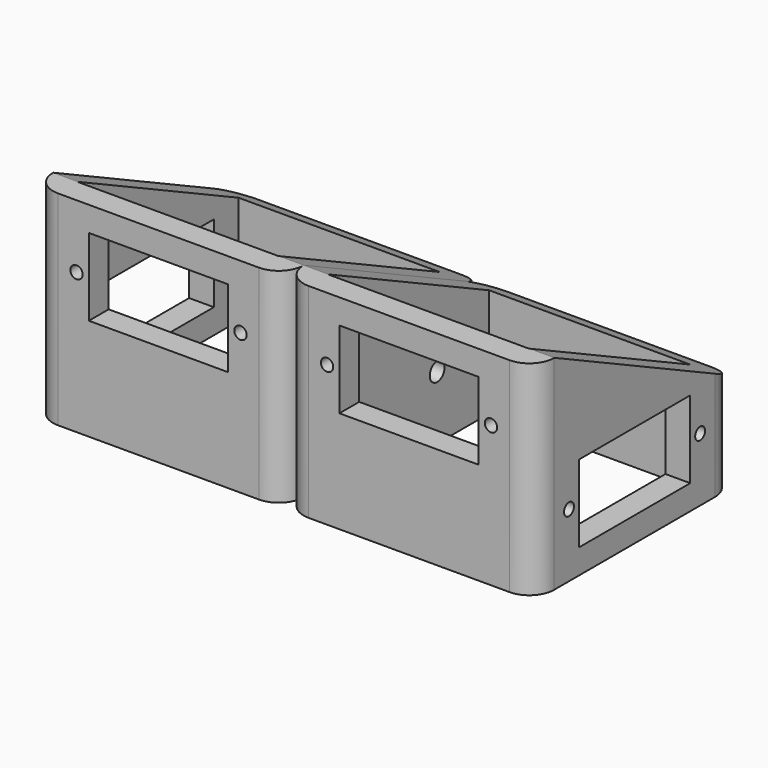
from build123d import *

# Parameters (mm, degrees)
F2_W      = 40.5
F2_H      = 40.5
F2_W_2    = 32.5
F2_H_2    = 32.5
F3_DEPTH  = 33
F4_W      = 22.5
F4_H      = 6.25
F5_DEPTH  = 25
F6_W      = 22.5
F6_H      = 6.25
F7_DEPTH  = 25
F9_DEPTH  = 25
F11_DEPTH = 60
F12_R     = 4
F14_ANGLE = 180


with BuildPart() as f3:
    # F2 (on Top) → F3 (new body)
    with BuildSketch(Plane.XY):
        Rectangle(F2_W, F2_H)
        Rectangle(F2_W_2, F2_H_2, mode=Mode.SUBTRACT)
    extrude(amount=F3_DEPTH)

    # F4 (on face) → F5 (cut)
    with BuildSketch(Plane.XZ.offset(20.25)):
        with Locations((0, 25.875)):
            Rectangle(F4_W, F4_H)
        with Locations((0, 19.625)):
            Rectangle(F4_W, F4_H)
        with BuildLine():
            Line((-14.25, 22.75), (-12.25, 22.75))
            ThreePointArc((-12.25, 22.75), (-13.25, 23.75), (-14.25, 22.75))
        make_face()
        with BuildLine():
            ThreePointArc((-14.25, 22.75), (-13.25, 21.75), (-12.25, 22.75))
            Line((-12.25, 22.75), (-14.25, 22.75))
        make_face()
        with BuildLine():
            ThreePointArc((14.25, 22.75), (13.25, 23.75), (12.25, 22.75))
            Line((12.25, 22.75), (14.25, 22.75))
        make_face()
        with BuildLine():
            Line((14.25, 22.75), (12.25, 22.75))
            ThreePointArc((12.25, 22.75), (13.25, 21.75), (14.25, 22.75))
        make_face()
    extrude(amount=-F5_DEPTH, mode=Mode.SUBTRACT)

    # F6 (on face) → F7 (cut)
    with BuildSketch(Plane(origin=(-20.25, 0, 0), x_dir=(0, -1, 0), z_dir=(-1, 0, 0))):
        with Locations((0, 13.375)):
            Rectangle(F6_W, F6_H)
        with Locations((0, 7.125)):
            Rectangle(F6_W, F6_H)
        with BuildLine():
            Line((14.25, 10.25), (12.25, 10.25))
            ThreePointArc((12.25, 10.25), (13.25, 9.25), (14.25, 10.25))
        make_face()
        with BuildLine():
            ThreePointArc((14.25, 10.25), (13.25, 11.25), (12.25, 10.25))
            Line((12.25, 10.25), (14.25, 10.25))
        make_face()
        with BuildLine():
            Line((-14.25, 10.25), (-12.25, 10.25))
            ThreePointArc((-12.25, 10.25), (-13.25, 11.25), (-14.25, 10.25))
        make_face()
        with BuildLine():
            ThreePointArc((-14.25, 10.25), (-13.25, 9.25), (-12.25, 10.25))
            Line((-12.25, 10.25), (-14.25, 10.25))
        make_face()
    extrude(amount=-F7_DEPTH, mode=Mode.SUBTRACT)

    # F8 (on face) → F9 (cut)
    with BuildSketch(Plane.YZ.offset(20.25)):
        with BuildLine():
            ThreePointArc((7.25, 10.25), (5.75, 11.75), (4.25, 10.25))
            Line((4.25, 10.25), (7.25, 10.25))
        make_face()
        with BuildLine():
            Line((7.25, 10.25), (4.25, 10.25))
            ThreePointArc((4.25, 10.25), (5.75, 8.75), (7.25, 10.25))
        make_face()
    extrude(amount=-F9_DEPTH, mode=Mode.SUBTRACT)

    # F10 (on face) → F11 (cut)
    with BuildSketch(Plane(origin=(-20.25, 0, 0), x_dir=(0, -1, 0), z_dir=(-1, 0, 0))):
        Polygon((16.2138678133, 33), (-20.25, 33), (-20.25, 15.6366154552), align=None)
    extrude(amount=-F11_DEPTH, mode=Mode.SUBTRACT)

    # F12
    f12_edges = [f3.edges().sort_by_distance(p)[0] for p in [
        (-20.25, -20.25, 16.5),
        (20.25, -20.25, 16.5),
        (20.25, 20.25, 7.818308),
        (-20.25, 20.25, 7.818308),
    ]]
    fillet(f12_edges, radius=F12_R)


with BuildPart() as f13_1:
    # F13: instance of F3
    add(f3.part.mirror(Plane.XY))


with BuildPart() as f13_1_1:
    # F14: moved
    add(f13_1.part.rotate(Axis((20.25, 0, 0), (0, 1, 0)), F14_ANGLE))


solid = Compound([f3.part, f13_1_1.part])
